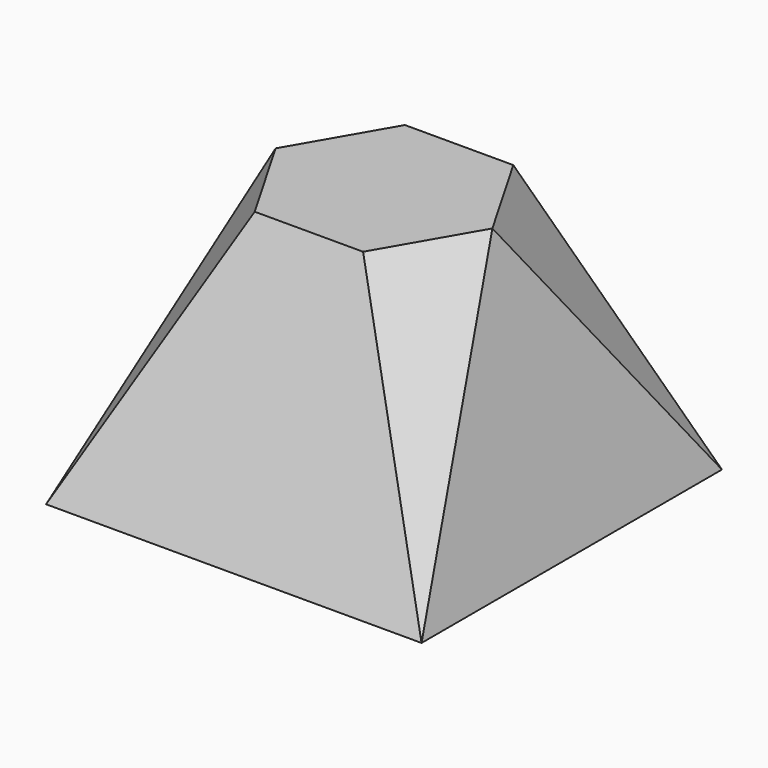
from build123d import *

# Parameters (mm, degrees)
F0_W = 254
F0_H = 254


with BuildPart() as f3:
    # F2 (on offset) → F3 section 0
    with BuildSketch(Plane.XY.offset(177.8)):
        Polygon((-36.6617420935, -63.5), (36.6617420935, -63.5), (73.3234841871, -63.5), (73.3234841871, 63.5), (36.6617420935, 63.5), (-36.6617420935, 63.5), (-73.3234841871, 63.5), (-73.3234841871, -63.5), align=None)
    # F0 (on Top) → F3 section 1
    with BuildSketch(Plane.XY):
        Rectangle(F0_W, F0_H)
    loft()


with BuildPart() as f5:
    # F4 (on offset) → F5 section 0
    with BuildSketch(Plane.XY.offset(177.8), mode=Mode.PRIVATE) as f5_s0:
        Polygon((36.6617420935, 63.5), (73.3234841871, 0), (73.3234841871, 63.5), align=None)
    loft([f5_s0.sketch, Vertex(127, 127, 0)])


with BuildPart() as f6:
    # F4 (on offset) → F6 section 0
    with BuildSketch(Plane.XY.offset(177.8), mode=Mode.PRIVATE) as f6_s0:
        Polygon((-73.3234841871, 63.5), (-73.3234841871, 0), (-36.6617420935, 63.5), align=None)
    loft([f6_s0.sketch, Vertex(-127, 127, 0)])


with BuildPart() as f7:
    # F4 (on offset) → F7 section 0
    with BuildSketch(Plane.XY.offset(177.8), mode=Mode.PRIVATE) as f7_s0:
        Polygon((-73.3234841871, -63.5), (-36.6617420935, -63.5), (-73.3234841871, 0), align=None)
    loft([f7_s0.sketch, Vertex(-127, -127, 0)])


with BuildPart() as f8:
    # F4 (on offset) → F8 section 0
    with BuildSketch(Plane.XY.offset(177.8), mode=Mode.PRIVATE) as f8_s0:
        Polygon((73.3234841871, 0), (36.6617420935, -63.5), (73.3234841871, -63.5), align=None)
    loft([f8_s0.sketch, Vertex(127, -127, 0)])


with BuildPart() as f3_1:
    add(f3.part)

    # F9: cut F5, F6, F7, F8
    add(f5.part, mode=Mode.SUBTRACT)
    add(f6.part, mode=Mode.SUBTRACT)
    add(f7.part, mode=Mode.SUBTRACT)
    add(f8.part, mode=Mode.SUBTRACT)


solid = f3_1.part
